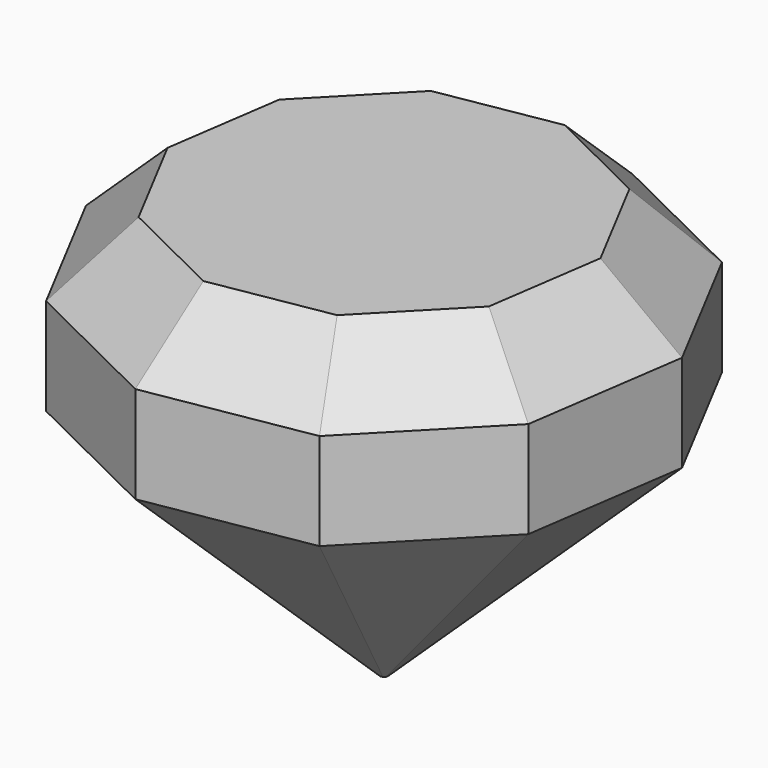
from build123d import *

# Parameters (mm, degrees)
F1_DEPTH = 76.2
F2_SIZE  = 12.7
F3_SIZE  = 45.72


with BuildPart() as f1:
    # F0 (on Top) → F1 (new body)
    with BuildSketch(Plane.XY):
        Polygon((-22.704043, 43.176515), (-43.746475, 21.585433), (-48.079241, -8.250551), (-34.047371, -34.935105), (-7.010562, -48.275636), (22.704043, -43.176515), (43.746475, -21.585433), (48.079241, 8.250551), (34.047371, 34.935105), (7.010562, 48.275636), align=None)
    extrude(amount=F1_DEPTH)

    # F2
    f2_edges = [f1.edges().sort_by_distance(p)[0] for p in [
        (7.84674, -45.726075, 76.2),
        (33.225259, -32.380974, 76.2),
        (45.912858, -6.667441, 76.2),
        (41.063306, 21.592828, 76.2),
        (20.528967, 41.60537, 76.2),
        (-7.84674, 45.726075, 76.2),
        (-20.528967, -41.60537, 76.2),
        (-41.063306, -21.592828, 76.2),
        (-45.912858, 6.667441, 76.2),
        (-33.225259, 32.380974, 76.2),
    ]]
    chamfer(f2_edges, length=F2_SIZE)

    # F3
    f3_edges = [f1.edges().sort_by_distance(p)[0] for p in [
        (-20.528967, -41.60537, 0),
        (7.84674, -45.726075, 0),
        (33.225259, -32.380974, 0),
        (45.912858, -6.667441, 0),
        (41.063306, 21.592828, 0),
        (20.528967, 41.60537, 0),
        (-7.84674, 45.726075, 0),
        (-33.225259, 32.380974, 0),
        (-45.912858, 6.667441, 0),
        (-41.063306, -21.592828, 0),
    ]]
    chamfer(f3_edges, length=F3_SIZE)


solid = f1.part
